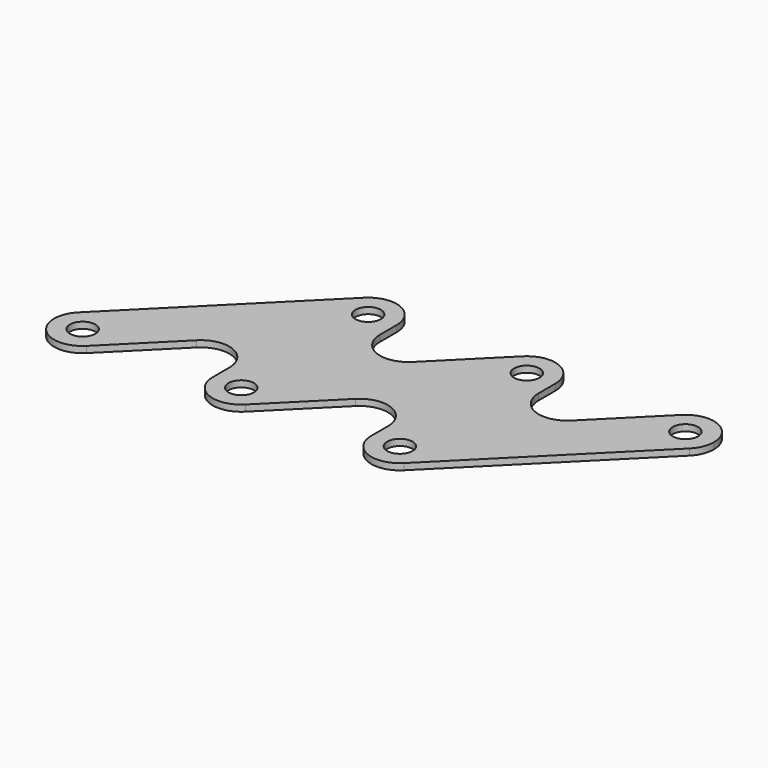
from build123d import *

# Parameters (mm, degrees)
F0_R     = 2
F1_DEPTH = 1
F2_R     = 4.5


with BuildPart() as f1:
    # F0 (on Top) → F1 (new body)
    with BuildSketch(Plane.XY):
        with BuildLine():
            Line((21.818019, 28.181981), (-3.181981, 3.181981))
            ThreePointArc((-3.181981, 3.181981), (-3.181981, -3.181981), (3.181981, -3.181981))
            Line((3.181981, -3.181981), (20.5, 14.136039))
            Line((20.5, 14.136039), (20.5, 0))
            ThreePointArc((20.5, 0), (25, 4.5), (29.5, 0))
            ThreePointArc((29.5, 0), (29.157458, -1.722075), (28.181981, -3.181981))
            Line((28.181981, -3.181981), (45.5, 14.136039))
            Line((45.5, 14.136039), (45.5, 0))
            ThreePointArc((45.5, 0), (50, 4.5), (54.5, 0))
            ThreePointArc((54.5, 0), (54.157458, -1.722075), (53.181981, -3.181981))
            Line((53.181981, -3.181981), (78.181981, 21.818019))
            ThreePointArc((78.181981, 21.818019), (71.818019, 21.818019), (71.818019, 28.181981))
            Line((71.818019, 28.181981), (54.5, 10.863961))
            Line((54.5, 10.863961), (54.5, 25))
            ThreePointArc((54.5, 25), (48.277925, 20.842542), (46.818019, 28.181981))
            Line((46.818019, 28.181981), (29.5, 10.863961))
            Line((29.5, 10.863961), (29.5, 25))
            ThreePointArc((29.5, 25), (23.277925, 20.842542), (21.818019, 28.181981))
        make_face()
        Circle(F0_R, mode=Mode.SUBTRACT)
        with BuildLine():
            ThreePointArc((29.5, 25), (26.722075, 29.157458), (21.818019, 28.181981))
            ThreePointArc((21.818019, 28.181981), (23.277925, 20.842542), (29.5, 25))
        make_face()
        with Locations((25, 25)):
            Circle(F0_R, mode=Mode.SUBTRACT)
        with BuildLine():
            ThreePointArc((29.5, 0), (25, 4.5), (20.5, 0))
            ThreePointArc((20.5, 0), (23.277925, -4.157458), (28.181981, -3.181981))
            ThreePointArc((28.181981, -3.181981), (29.157458, -1.722075), (29.5, 0))
        make_face()
        with Locations((25, 0)):
            Circle(F0_R, mode=Mode.SUBTRACT)
        with BuildLine():
            ThreePointArc((54.5, 0), (50, 4.5), (45.5, 0))
            ThreePointArc((45.5, 0), (48.277925, -4.157458), (53.181981, -3.181981))
            ThreePointArc((53.181981, -3.181981), (54.157458, -1.722075), (54.5, 0))
        make_face()
        with Locations((50, 0)):
            Circle(F0_R, mode=Mode.SUBTRACT)
        with BuildLine():
            ThreePointArc((54.5, 25), (51.722075, 29.157458), (46.818019, 28.181981))
            ThreePointArc((46.818019, 28.181981), (48.277925, 20.842542), (54.5, 25))
        make_face()
        with Locations((50, 25)):
            Circle(F0_R, mode=Mode.SUBTRACT)
        with BuildLine():
            ThreePointArc((79.5, 25), (76.722075, 29.157458), (71.818019, 28.181981))
            ThreePointArc((71.818019, 28.181981), (71.818019, 21.818019), (78.181981, 21.818019))
            ThreePointArc((78.181981, 21.818019), (79.157458, 23.277925), (79.5, 25))
        make_face()
        with Locations((75, 25)):
            Circle(F0_R, mode=Mode.SUBTRACT)
    extrude(amount=F1_DEPTH)

    # F2
    f2_edges = [f1.edges().sort_by_distance(p)[0] for p in [
        (20.5, 14.136039, 0.5),
        (45.5, 14.136039, 0.5),
        (29.5, 10.863961, 0.5),
        (54.5, 10.863961, 0.5),
    ]]
    fillet(f2_edges, radius=F2_R)


solid = f1.part
